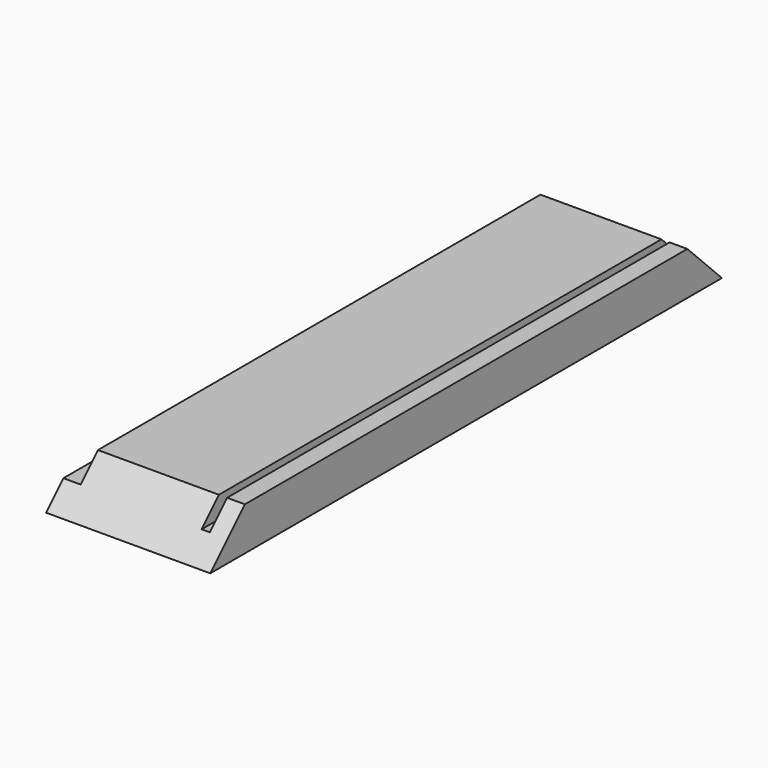
from build123d import *

# Parameters (mm, degrees)
F0_W     = 234.95
F0_H     = 15.875
F1_DEPTH = 60.325
F2_W     = 6.35
F2_H     = 7.9375
F2_W_2   = 3
F3_DEPTH = 234.951
F5_DEPTH = 60.326


with BuildPart() as f1:
    # F0 (on Right) → F1 (new body)
    with BuildSketch(Plane.YZ):
        Rectangle(F0_W, F0_H)
    extrude(amount=F1_DEPTH)

    # F2 (on face) → F3 (cut, through all)
    with BuildSketch(Plane.XZ.offset(117.475)):
        with Locations((3.175, 3.96875)):
            Rectangle(F2_W, F2_H)
        with Locations((52.3, 3.96875)):
            Rectangle(F2_W_2, F2_H)
    extrude(amount=-F3_DEPTH, mode=Mode.SUBTRACT)

    # F4 (on face) → F5 (cut, through all)
    with BuildSketch(Plane.YZ.offset(60.325)):
        Polygon((-117.475, 7.9375), (-117.475, -7.9375), (-101.6, 7.9375), align=None)
        Polygon((101.6, 7.9375), (117.475, -7.9375), (117.475, 7.9375), align=None)
    extrude(amount=-F5_DEPTH, mode=Mode.SUBTRACT)


solid = f1.part
